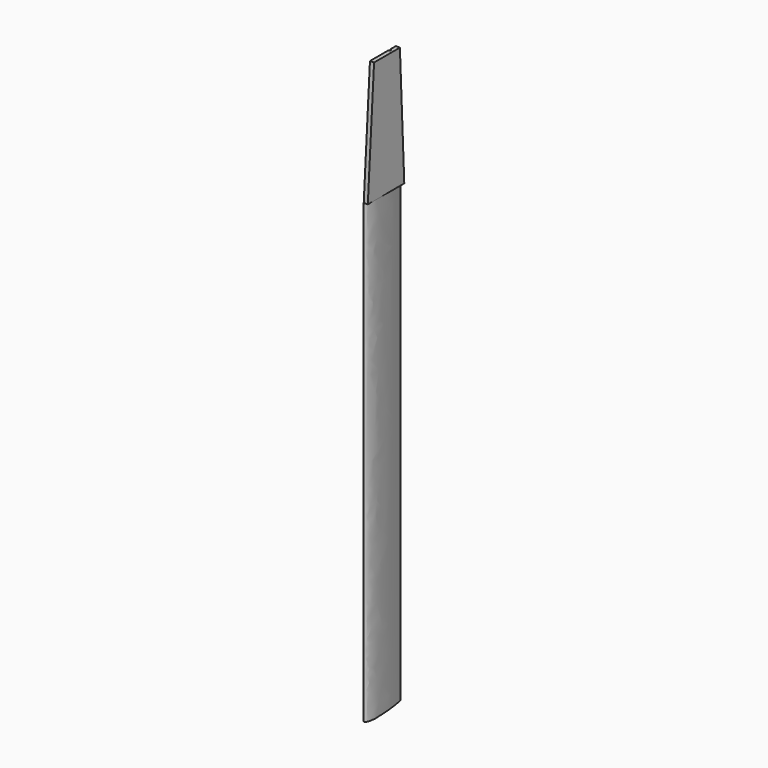
from build123d import *

# Parameters (mm, degrees)
F1_DEPTH = 1500
F4_W     = 13.4842032567
F4_H     = 106.1348728836
F2_W     = 13.4115656838
F2_H     = 149.7195065022
F7_DEPTH = 1900.0010001


with BuildPart() as f1:
    # F0 (on Top) → F1 (new body)
    with BuildSketch(Plane.XY):
        with BuildLine():
            Line((0, 150), (0, 0))
            add(Edge.make_bspline(
                [(0, 0), (6.6987425555, 0), (12.4945073223, 22.8944801293), (12.3750223708, 47.7205565423), (8.3905121297, 113.9288991183), (0, 150)],
                knots=[0, 0, 0, 0, 0.2326934184, 0.4957068785, 1, 1, 1, 1], degree=3))
        make_face()
    extrude(amount=-F1_DEPTH)

    # F4 (on offset) → F5 section 0
    with BuildSketch(Plane.XY.offset(400)):
        with Locations((6.7421016283, 78.6172393709)):
            Rectangle(F4_W, F4_H)
    # F2 (on Top) → F5 section 1
    with BuildSketch(Plane.XY):
        with Locations((6.7057828419, 74.8597532511)):
            Rectangle(F2_W, F2_H)
    loft()

    # F6 (on offset) → F7 (cut, through all)
    with BuildSketch(Plane.XY.offset(400)):
        with BuildLine():
            Line((0, 110), (0, 100))
            ThreePointArc((0, 100), (5, 105), (0, 110))
        make_face()
    extrude(amount=-F7_DEPTH, mode=Mode.SUBTRACT)


solid = f1.part
